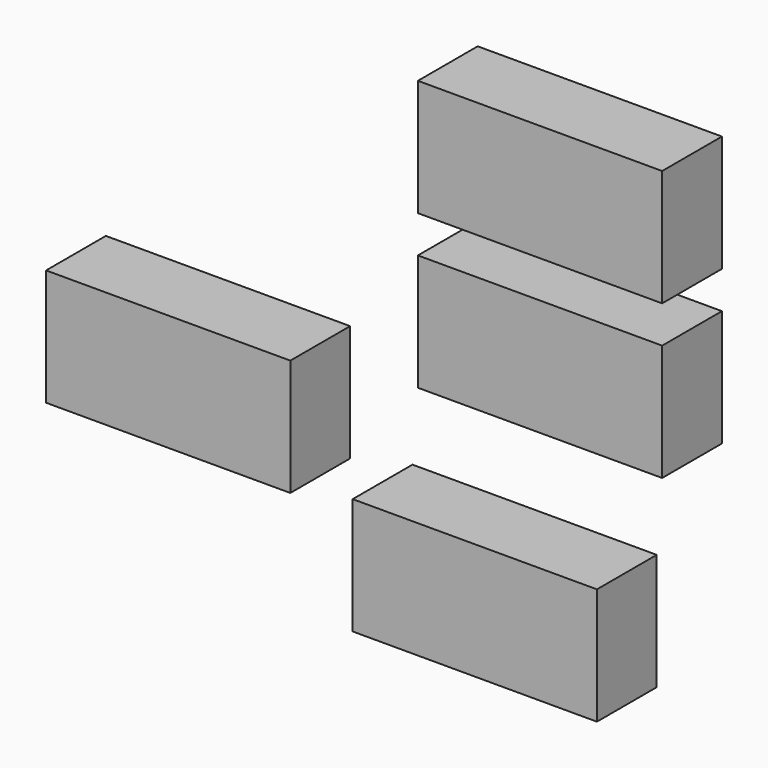
from build123d import *

# Parameters (mm, degrees)
F0_W     = 83.0326
F0_H     = 39.6113
F1_DEPTH = 25.4


with BuildPart() as f1:
    # F0 (on Front) → F1 (new body)
    with BuildSketch(Plane.XZ):
        Rectangle(F0_W, F0_H)
        with Locations((0, 52.259795)):
            Rectangle(F0_W, F0_H)
        with Locations((-22.166409, -80.144794)):
            Rectangle(F0_W, F0_H)
        with Locations((-126.400423, -45.590495)):
            Rectangle(F0_W, F0_H)
    extrude(amount=F1_DEPTH)


solid = f1.part
